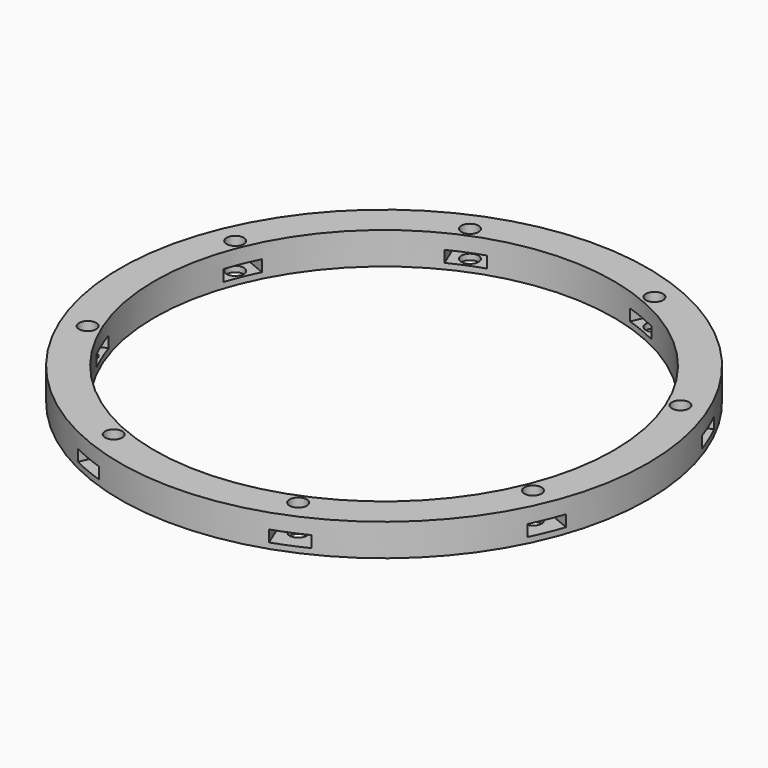
from build123d import *

# Parameters (mm, degrees)
BOX588_W                     = 6
BOX588_H                     = 8
BOX588_DEPTH                 = 2
BOX588_PLACEMENT_ANGLE       = 45
BOX586_W                     = 6
BOX586_H                     = 8
BOX586_DEPTH                 = 2
BOX585_W                     = 6
BOX585_H                     = 8
BOX585_DEPTH                 = 2
BOX589_W                     = 6
BOX589_H                     = 8
BOX589_DEPTH                 = 2
BOX589_PLACEMENT_ANGLE       = 135
BOX590_W                     = 6
BOX590_H                     = 8
BOX590_DEPTH                 = 2
BOX587_W                     = 6
BOX587_H                     = 8
BOX587_DEPTH                 = 2
BOX587_PLACEMENT_ANGLE       = 225
BOX591_W                     = 6
BOX591_H                     = 8
BOX591_DEPTH                 = 2
BOX584_W                     = 6
BOX584_H                     = 8
BOX584_DEPTH                 = 2
BOX584_PLACEMENT_ANGLE       = 45
COMPOUND966_PLACEMENT_ANGLE  = 22.5
CYLINDER1415_R               = 1.5
CYLINDER1415_DEPTH           = 32
CYLINDER1415_PLACEMENT_ANGLE = 45
CYLINDER1418_R               = 1.5
CYLINDER1418_DEPTH           = 32
CYLINDER1416_R               = 1.5
CYLINDER1416_DEPTH           = 32
CYLINDER1416_PLACEMENT_ANGLE = 135
CYLINDER1414_R               = 1.5
CYLINDER1414_DEPTH           = 32
CYLINDER1412_R               = 1.5
CYLINDER1412_DEPTH           = 32
CYLINDER1412_PLACEMENT_ANGLE = 225
CYLINDER1417_R               = 1.5
CYLINDER1417_DEPTH           = 32
CYLINDER1411_R               = 1.5
CYLINDER1411_DEPTH           = 32
CYLINDER1411_PLACEMENT_ANGLE = 45
CYLINDER1413_R               = 1.5
CYLINDER1413_DEPTH           = 32
COMPOUND967_PLACEMENT_ANGLE  = 22.5
TUBE132_R                    = 50
TUBE132_R_2                  = 40
TUBE132_DEPTH                = 11
TUBE131_R                    = 46
TUBE131_R_2                  = 40
TUBE131_DEPTH                = 16


with BuildPart() as krychle588:
    # Box588 → Box588 (new body)
    with BuildSketch(Plane.XY):
        with Locations((3, 4)):
            Rectangle(BOX588_W, BOX588_H)
    extrude(amount=BOX588_DEPTH)


with BuildPart() as krychle588_1:
    # Box588 placement: moved
    add(krychle588.part.moved(Location((30.405592, -34.648232, 33))).rotate(Axis((30.405592, -34.648232, 33), (0, 0, 1)), BOX588_PLACEMENT_ANGLE))


with BuildPart() as krychle586:
    # Box586 → Box586 (new body)
    with BuildSketch(Plane(origin=(46, -3, 33), x_dir=(0, 1, 0), z_dir=(0, 0, 1))):
        with Locations((3, 4)):
            Rectangle(BOX586_W, BOX586_H)
    extrude(amount=BOX586_DEPTH)


with BuildPart() as krychle585:
    # Box585 → Box585 (new body)
    with BuildSketch(Plane(origin=(-3, -46, 33), x_dir=(1, 0, 0), z_dir=(0, 0, 1))):
        with Locations((3, 4)):
            Rectangle(BOX585_W, BOX585_H)
    extrude(amount=BOX585_DEPTH)


with BuildPart() as krychle589:
    # Box589 → Box589 (new body)
    with BuildSketch(Plane.XY):
        with Locations((3, 4)):
            Rectangle(BOX589_W, BOX589_H)
    extrude(amount=BOX589_DEPTH)


with BuildPart() as krychle589_1:
    # Box589 placement: moved
    add(krychle589.part.moved(Location((34.648232, 30.405592, 33))).rotate(Axis((34.648232, 30.405592, 33), (0, 0, 1)), BOX589_PLACEMENT_ANGLE))


with BuildPart() as krychle590:
    # Box590 → Box590 (new body)
    with BuildSketch(Plane(origin=(3, 46, 33), x_dir=(-1, 0, 0), z_dir=(0, 0, 1))):
        with Locations((3, 4)):
            Rectangle(BOX590_W, BOX590_H)
    extrude(amount=BOX590_DEPTH)


with BuildPart() as krychle587:
    # Box587 → Box587 (new body)
    with BuildSketch(Plane.XY):
        with Locations((3, 4)):
            Rectangle(BOX587_W, BOX587_H)
    extrude(amount=BOX587_DEPTH)


with BuildPart() as krychle587_1:
    # Box587 placement: moved
    add(krychle587.part.moved(Location((-30.405592, 34.648232, 33))).rotate(Axis((-30.405592, 34.648232, 33), (0, 0, 1)), BOX587_PLACEMENT_ANGLE))


with BuildPart() as krychle591:
    # Box591 → Box591 (new body)
    with BuildSketch(Plane(origin=(-46, 3, 33), x_dir=(0, -1, 0), z_dir=(0, 0, 1))):
        with Locations((3, 4)):
            Rectangle(BOX591_W, BOX591_H)
    extrude(amount=BOX591_DEPTH)


with BuildPart() as compound966:
    # Box584 → Box584 (new body)
    with BuildSketch(Plane.XY):
        with Locations((3, 4)):
            Rectangle(BOX584_W, BOX584_H)
    extrude(amount=BOX584_DEPTH)


with BuildPart() as compound966_1:
    # Box584 placement: moved
    add(compound966.part.moved(Location((-34.648232, -30.405592, 33))).rotate(Axis((-34.648232, -30.405592, 33), (0, 0, -1)), BOX584_PLACEMENT_ANGLE))

    # Compound966: union Krychle588, Krychle586, Krychle585, Krychle589, Krychle590, Krychle587, Krychle591
    add(krychle588_1.part)
    add(krychle586.part)
    add(krychle585.part)
    add(krychle589_1.part)
    add(krychle590.part)
    add(krychle587_1.part)
    add(krychle591.part)


with BuildPart() as compound966_2:
    # Compound966 placement: moved
    add(compound966_1.part.moved(Location((0, 0, 4.4))).rotate(Axis((0, 0, 4.4), (0, 0, 1)), COMPOUND966_PLACEMENT_ANGLE))


with BuildPart() as obj1:
    # Cylinder1415 → Cylinder1415 (new body)
    with BuildSketch(Plane.XY):
        Circle(CYLINDER1415_R)
    extrude(amount=CYLINDER1415_DEPTH)


with BuildPart() as obj1_1:
    # Cylinder1415 placement: moved
    add(obj1.part.moved(Location((29.698485, -29.698485, 33.5))).rotate(Axis((29.698485, -29.698485, 33.5), (0, 0, 1)), CYLINDER1415_PLACEMENT_ANGLE))


with BuildPart() as obj2:
    # Cylinder1418 → Cylinder1418 (new body)
    with BuildSketch(Plane(origin=(42, 0, 33.5), x_dir=(0, 1, 0), z_dir=(0, 0, 1))):
        Circle(CYLINDER1418_R)
    extrude(amount=CYLINDER1418_DEPTH)


with BuildPart() as obj3:
    # Cylinder1416 → Cylinder1416 (new body)
    with BuildSketch(Plane.XY):
        Circle(CYLINDER1416_R)
    extrude(amount=CYLINDER1416_DEPTH)


with BuildPart() as obj3_1:
    # Cylinder1416 placement: moved
    add(obj3.part.moved(Location((29.698485, 29.698485, 33.5))).rotate(Axis((29.698485, 29.698485, 33.5), (0, 0, 1)), CYLINDER1416_PLACEMENT_ANGLE))


with BuildPart() as obj4:
    # Cylinder1414 → Cylinder1414 (new body)
    with BuildSketch(Plane(origin=(0, 42, 33.5), x_dir=(-1, 0, 0), z_dir=(0, 0, 1))):
        Circle(CYLINDER1414_R)
    extrude(amount=CYLINDER1414_DEPTH)


with BuildPart() as obj5:
    # Cylinder1412 → Cylinder1412 (new body)
    with BuildSketch(Plane.XY):
        Circle(CYLINDER1412_R)
    extrude(amount=CYLINDER1412_DEPTH)


with BuildPart() as obj5_1:
    # Cylinder1412 placement: moved
    add(obj5.part.moved(Location((-29.698485, 29.698485, 33.5))).rotate(Axis((-29.698485, 29.698485, 33.5), (0, 0, 1)), CYLINDER1412_PLACEMENT_ANGLE))


with BuildPart() as obj6:
    # Cylinder1417 → Cylinder1417 (new body)
    with BuildSketch(Plane(origin=(-42, 0, 33.5), x_dir=(0, -1, 0), z_dir=(0, 0, 1))):
        Circle(CYLINDER1417_R)
    extrude(amount=CYLINDER1417_DEPTH)


with BuildPart() as obj7:
    # Cylinder1411 → Cylinder1411 (new body)
    with BuildSketch(Plane.XY):
        Circle(CYLINDER1411_R)
    extrude(amount=CYLINDER1411_DEPTH)


with BuildPart() as obj7_1:
    # Cylinder1411 placement: moved
    add(obj7.part.moved(Location((-29.698485, -29.698485, 33.5))).rotate(Axis((-29.698485, -29.698485, 33.5), (0, 0, -1)), CYLINDER1411_PLACEMENT_ANGLE))


with BuildPart() as compound967:
    # Cylinder1413 → Cylinder1413 (new body)
    with BuildSketch(Plane(origin=(0, -42, 33.5), x_dir=(1, 0, 0), z_dir=(0, 0, 1))):
        Circle(CYLINDER1413_R)
    extrude(amount=CYLINDER1413_DEPTH)

    # Compound967: union obj1, obj2, obj3, obj4, obj5, obj6, obj7
    add(obj1_1.part)
    add(obj2.part)
    add(obj3_1.part)
    add(obj4.part)
    add(obj5_1.part)
    add(obj6.part)
    add(obj7_1.part)


with BuildPart() as compound967_1:
    # Compound967 placement: moved
    add(compound967.part.rotate(Axis((0, 0, 0), (0, 0, 1)), COMPOUND967_PLACEMENT_ANGLE))


with BuildPart() as tube132:
    # Tube132 → Tube132 (new body)
    with BuildSketch(Plane.XY.offset(25.4)):
        Circle(TUBE132_R)
        Circle(TUBE132_R_2, mode=Mode.SUBTRACT)
    extrude(amount=TUBE132_DEPTH)


with BuildPart() as cut516:
    # Tube131 → Tube131 (new body)
    with BuildSketch(Plane.XY.offset(26)):
        Circle(TUBE131_R)
        Circle(TUBE131_R_2, mode=Mode.SUBTRACT)
    extrude(amount=TUBE131_DEPTH)

    # Cut513: cut Tube132
    add(tube132.part, mode=Mode.SUBTRACT)

    # Cut515: cut Compound967
    add(compound967_1.part, mode=Mode.SUBTRACT)

    # Cut516: cut Compound966
    add(compound966_2.part, mode=Mode.SUBTRACT)


with BuildPart() as cut516_1:
    # Cut516 placement: moved
    add(cut516.part.moved(Location((0, 0, 3))))


solid = cut516_1.part
